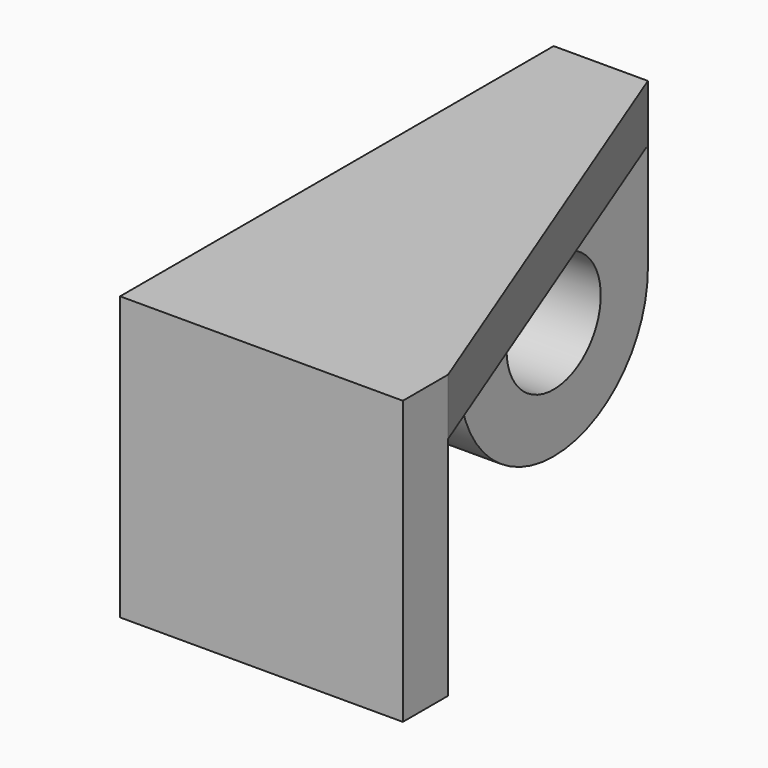
from build123d import *

# Parameters (mm, degrees)
F0_W     = 60
F0_H     = 60
F1_DEPTH = 12
F3_DEPTH = 12
F4_W     = 50
F4_H     = 23
F5_DEPTH = 20
F7_DEPTH = 20
F8_R     = 12.5
F9_DEPTH = 20


with BuildPart() as f1:
    # F0 (on Front) → F1 (new body)
    with BuildSketch(Plane.XZ):
        Rectangle(F0_W, F0_H)
    extrude(amount=F1_DEPTH)

    # F2 (on face) → F3 (join)
    with BuildSketch(Plane.XY.offset(30)):
        Polygon((-30, 103), (-30, 0), (30, 0), (-10, 103), align=None)
    extrude(amount=-F3_DEPTH)

    # F4 (on face) → F5 (join)
    with BuildSketch(Plane(origin=(-30, 0, 0), x_dir=(0, -1, 0), z_dir=(-1, 0, 0))):
        with Locations((-78, 6.5)):
            Rectangle(F4_W, F4_H)
    extrude(amount=-F5_DEPTH)

    # F6 (on face) → F7 (join)
    with BuildSketch(Plane(origin=(-30, 0, 0), x_dir=(0, -1, 0), z_dir=(-1, 0, 0))):
        with BuildLine():
            Line((-53, -5), (-103, -5))
            ThreePointArc((-103, -5), (-78, -30), (-53, -5))
        make_face()
    extrude(amount=-F7_DEPTH)

    # F8 (on face) → F9 (cut)
    with BuildSketch(Plane(origin=(-30, 0, 0), x_dir=(0, -1, 0), z_dir=(-1, 0, 0))):
        with Locations((-78, -5)):
            Circle(F8_R)
    extrude(amount=-F9_DEPTH, mode=Mode.SUBTRACT)


solid = f1.part
